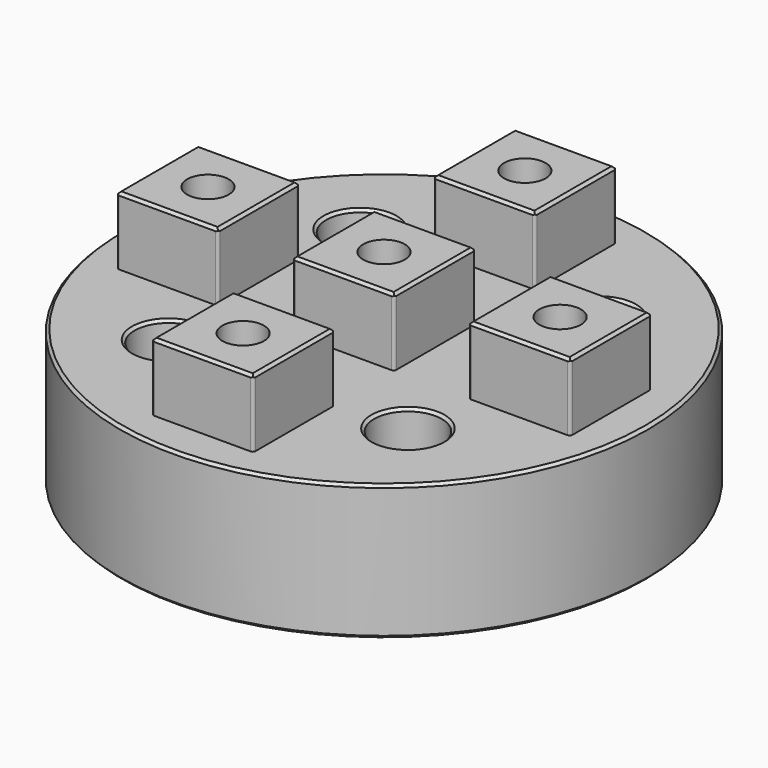
from build123d import *

# Parameters (mm, degrees)
CYLINDER_R      = 24.765
CYLINDER_DEPTH  = 19.05
SKETCH_R        = 3.175
POCKET_DEPTH    = 19.05
SKETCH001_R     = 25.4
SKETCH001_W     = 9.525
SKETCH001_H     = 9.525
POCKET001_DEPTH = 6.35
SKETCH002_R     = 1.95
HOLE_DEPTH      = 6.810375
HOLE_TIPS_R     = 1.95
CHAMFER_SIZE    = 0.254
FILLET_R        = 0.254
CHAMFER001_SIZE = 0.254


with BuildPart() as part:
    # Cylinder → Cylinder (join)
    with BuildSketch(Plane.XY):
        Circle(CYLINDER_R)
    extrude(amount=CYLINDER_DEPTH)

    # Sketch (on Face3 of Cylinder) → Pocket (cut)
    with BuildSketch(Plane.XY.offset(19.05)):
        with Locations((11.22532, 11.22532)):
            Circle(SKETCH_R)
        with Locations((-11.22532, 11.22532)):
            Circle(SKETCH_R)
        with Locations((-11.22532, -11.22532)):
            Circle(SKETCH_R)
        with Locations((11.22532, -11.22532)):
            Circle(SKETCH_R)
    extrude(amount=-POCKET_DEPTH, mode=Mode.SUBTRACT)

    # Sketch001 (on Face3 of Pocket) → Pocket001 (cut)
    with BuildSketch(Plane.XY.offset(19.05)):
        Circle(SKETCH001_R)
        Rectangle(SKETCH001_W, SKETCH001_H, mode=Mode.SUBTRACT)
        with Locations((0, 16.51)):
            Rectangle(SKETCH001_W, SKETCH001_H, mode=Mode.SUBTRACT)
        with Locations((-16.51, 0)):
            Rectangle(SKETCH001_W, SKETCH001_H, mode=Mode.SUBTRACT)
        with Locations((0, -16.51)):
            Rectangle(SKETCH001_W, SKETCH001_H, mode=Mode.SUBTRACT)
        with Locations((16.51, 0)):
            Rectangle(SKETCH001_W, SKETCH001_H, mode=Mode.SUBTRACT)
    extrude(amount=-POCKET001_DEPTH, mode=Mode.SUBTRACT)

    # Sketch002 (on Face30 of Pocket001) → Hole (cut)
    with BuildSketch(Plane.XY.offset(19.05)):
        with Locations((0, 16.51)):
            Circle(SKETCH002_R)
        with Locations((16.51, 0)):
            Circle(SKETCH002_R)
        with Locations((-16.51, 0)):
            Circle(SKETCH002_R)
        with Locations((0, -16.51)):
            Circle(SKETCH002_R)
        Circle(SKETCH002_R)
    extrude(amount=-HOLE_DEPTH, mode=Mode.SUBTRACT)

    # Hole tips → Hole tip 1 section 0
    with BuildSketch(Plane.XY.offset(12.239625), mode=Mode.PRIVATE) as hole_tip_1_s0:
        with Locations((0, 16.51)):
            Circle(HOLE_TIPS_R)
    loft([hole_tip_1_s0.sketch, Vertex(0, 16.51, 11.067947)], mode=Mode.SUBTRACT)

    # Hole tips → Hole tip 2 section 0
    with BuildSketch(Plane.XY.offset(12.239625), mode=Mode.PRIVATE) as hole_tip_2_s0:
        with Locations((16.51, 0)):
            Circle(HOLE_TIPS_R)
    loft([hole_tip_2_s0.sketch, Vertex(16.51, 0, 11.067947)], mode=Mode.SUBTRACT)

    # Hole tips → Hole tip 3 section 0
    with BuildSketch(Plane.XY.offset(12.239625), mode=Mode.PRIVATE) as hole_tip_3_s0:
        with Locations((-16.51, 0)):
            Circle(HOLE_TIPS_R)
    loft([hole_tip_3_s0.sketch, Vertex(-16.51, 0, 11.067947)], mode=Mode.SUBTRACT)

    # Hole tips → Hole tip 4 section 0
    with BuildSketch(Plane.XY.offset(12.239625), mode=Mode.PRIVATE) as hole_tip_4_s0:
        with Locations((0, -16.51)):
            Circle(HOLE_TIPS_R)
    loft([hole_tip_4_s0.sketch, Vertex(0, -16.51, 11.067947)], mode=Mode.SUBTRACT)

    # Hole tips → Hole tip 5 section 0
    with BuildSketch(Plane.XY.offset(12.239625), mode=Mode.PRIVATE) as hole_tip_5_s0:
        Circle(HOLE_TIPS_R)
    loft([hole_tip_5_s0.sketch, Vertex(0, 0, 11.067947)], mode=Mode.SUBTRACT)

    # Chamfer
    chamfer_edges = [part.edges().sort_by_distance(p)[0] for p in [
        (0, -21.2725, 19.05),
        (-16.51, -4.7625, 19.05),
        (-24.765, 0, 12.7),
        (0, -4.7625, 19.05),
        (0, 11.7475, 19.05),
        (16.51, -4.7625, 19.05),
        (8.05032, 11.22532, 12.7),
        (-14.40032, 11.22532, 12.7),
        (-14.40032, -11.22532, 12.7),
        (8.05032, -11.22532, 12.7),
        (4.7625, -16.51, 19.05),
        (0, -11.7475, 19.05),
        (-4.7625, -16.51, 19.05),
        (-4.7625, 0, 19.05),
        (0, 4.7625, 19.05),
        (4.7625, 0, 19.05),
        (21.2725, 0, 19.05),
        (11.7475, 0, 19.05),
        (16.51, 4.7625, 19.05),
        (-4.7625, 16.51, 19.05),
        (0, 21.2725, 19.05),
        (4.7625, 16.51, 19.05),
        (-11.7475, 0, 19.05),
        (-16.51, 4.7625, 19.05),
        (-21.2725, 0, 19.05),
    ]]
    chamfer(chamfer_edges, length=CHAMFER_SIZE)

    # Fillet
    fillet_edges = [part.edges().sort_by_distance(p)[0] for p in [
        (4.7625, -21.2725, 15.748),
        (4.7625, -11.7475, 15.748),
        (-4.7625, -21.2725, 15.748),
        (-4.7625, -11.7475, 15.748),
        (-21.2725, -4.7625, 15.748),
        (-11.7475, -4.7625, 15.748),
        (-4.7625, -4.7625, 15.748),
        (4.7625, -4.7625, 15.748),
        (11.7475, -4.7625, 15.748),
        (21.2725, -4.7625, 15.748),
        (-4.7625, 11.7475, 15.748),
        (4.7625, 11.7475, 15.748),
        (21.2725, 4.7625, 15.748),
        (11.7475, 4.7625, 15.748),
        (4.7625, 4.7625, 15.748),
        (-4.7625, 4.7625, 15.748),
        (-11.7475, 4.7625, 15.748),
        (-21.2725, 4.7625, 15.748),
        (4.7625, 21.2725, 15.748),
        (-4.7625, 21.2725, 15.748),
    ]]
    fillet(fillet_edges, radius=FILLET_R)

    # Chamfer001
    chamfer001_edges = [part.edges().sort_by_distance(p)[0] for p in [
        (-24.765, 0, 0),
        (8.05032, -11.22532, 0),
        (8.05032, 11.22532, 0),
        (-14.40032, 11.22532, 0),
        (-14.40032, -11.22532, 0),
    ]]
    chamfer(chamfer001_edges, length=CHAMFER001_SIZE)


solid = part.part
